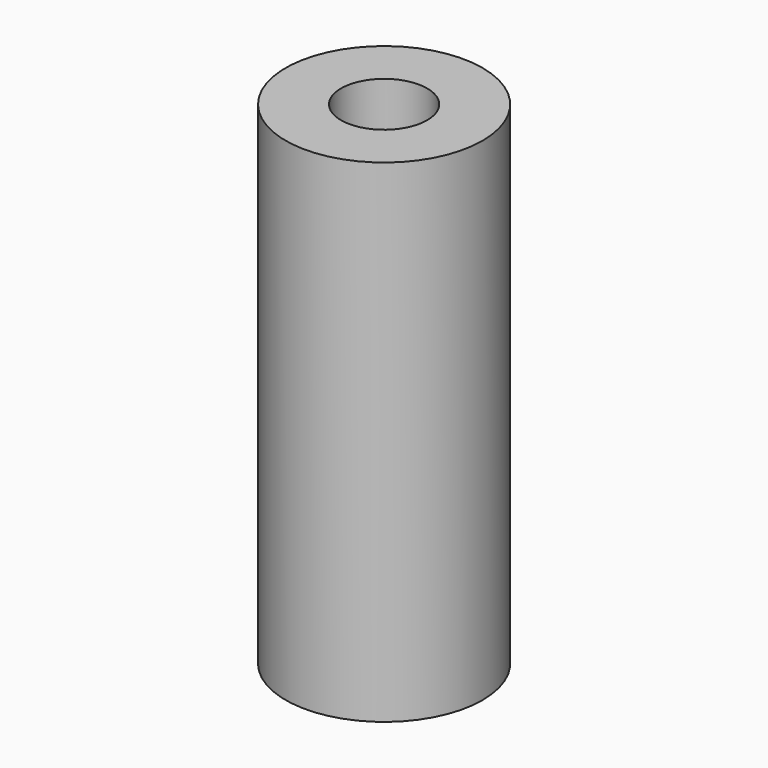
from build123d import *

# Parameters (mm, degrees)
SKETCH022_R     = 4
PAD009_DEPTH    = 20
SKETCH023_R     = 2.19496
POCKET011_DEPTH = 7
SKETCH025_R     = 1.75
POCKET012_DEPTH = 10


with BuildPart() as part:
    # Sketch022 → Pad009 (new body)
    with BuildSketch(Plane.XY):
        Circle(SKETCH022_R)
    extrude(amount=PAD009_DEPTH)

    # Sketch023 (on Face2 of Pad009) → Pocket011 (cut)
    with BuildSketch(Plane(origin=(0, 0, 0), x_dir=(1, 0, 0), z_dir=(0, 0, -1))):
        Circle(SKETCH023_R)
    extrude(amount=-POCKET011_DEPTH, mode=Mode.SUBTRACT)

    # Sketch025 (on Face3 of Pocket011) → Pocket012 (cut)
    with BuildSketch(Plane.XY.offset(20)):
        Circle(SKETCH025_R)
    extrude(amount=-POCKET012_DEPTH, mode=Mode.SUBTRACT)


with BuildPart() as part_1:
    # Body006 placement: moved
    add(part.part.moved(Location((-31.75, 0, -7.5))))


solid = part_1.part
